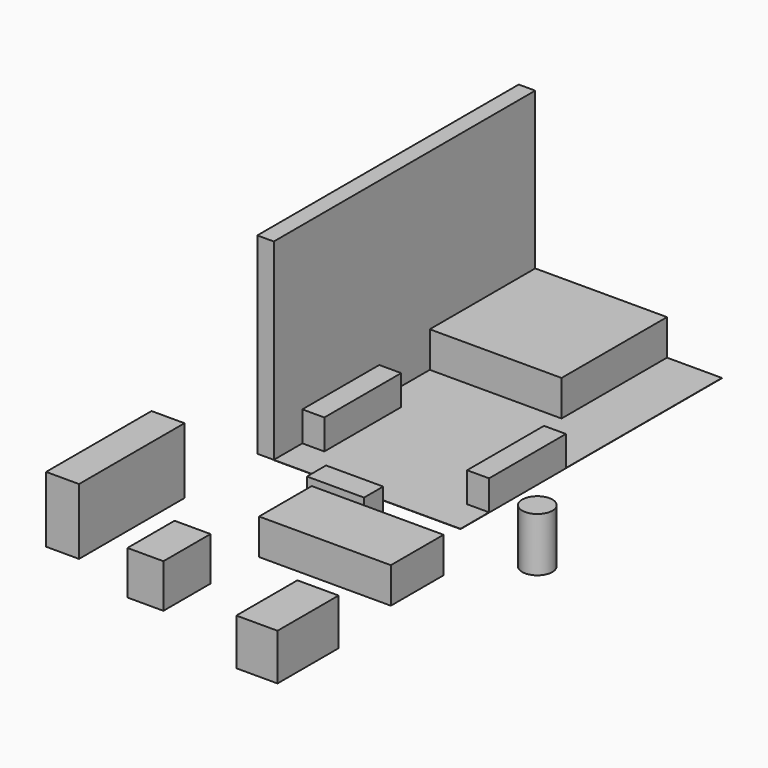
from build123d import *

# Parameters (mm, degrees)
F0_W      = 203.2
F0_H      = 889
F1_DEPTH  = 279.4
F4_DEPTH  = 2.54
F6_DEPTH  = 1778
F7_W      = 1219.2
F7_H      = 1219.2
F8_DEPTH  = 330.2
F9_W      = 304.8
F9_H      = 1219.2
F10_DEPTH = 609.6
F11_W     = 528.32
F11_H     = 220.98
F12_DEPTH = 228.6
F13_W     = 1219.2
F13_H     = 609.6
F14_DEPTH = 330.2
F15_W     = 332.74
F15_H     = 544.83
F16_DEPTH = 403.86
F17_W     = 381
F17_H     = 706.12
F18_DEPTH = 429.26
F19_R     = 139.7
F20_DEPTH = 499.618


with BuildPart() as f1:
    # F0 (on Top) → F1 (new body)
    with BuildSketch(Plane.XY):
        with Locations((-762, -736.6)):
            Rectangle(F0_W, F0_H)
    extrude(amount=F1_DEPTH)


with BuildPart() as f2_1:
    # F2: instance of F1
    add(f1.part.mirror(Plane.YZ))


with BuildPart() as f4:
    # F3 (on face) → F4 (new body)
    with BuildSketch(Plane.XY):
        Polygon((-863.6, -1181.1), (-863.6, -1511.3), (863.6, -1511.3), (863.6, 1511.3), (-863.6, 1511.3), (-863.6, 419.1), (-863.6, -292.1), (-660.4, -292.1), (-660.4, -1181.1), align=None)
    extrude(amount=F4_DEPTH)


with BuildPart() as f6:
    # F5 (on face) → F6 (new body)
    with BuildSketch(Plane.XY.offset(2.54)):
        Polygon((-1016, -1511.3), (-863.6, -1511.3), (-863.6, -1181.1), (-863.6, -292.1), (-863.6, 1511.3), (-1016, 1511.3), align=None)
    extrude(amount=F6_DEPTH)


with BuildPart() as f8:
    # F7 (on face) → F8 (new body)
    with BuildSketch(Plane.XY.offset(2.54)):
        with Locations((-254, 901.7)):
            Rectangle(F7_W, F7_H)
    extrude(amount=F8_DEPTH)


with BuildPart() as f10:
    # F9 (on face) → F10 (new body)
    with BuildSketch(Plane.XY):
        with Locations((-1149.300161, -2986.844182)):
            Rectangle(F9_W, F9_H)
    extrude(amount=F10_DEPTH)


with BuildPart() as f12:
    # F11 (on face) → F12 (new body)
    with BuildSketch(Plane.XY.offset(2.54)):
        with Locations((24.565428, -1797.391298)):
            Rectangle(F11_W, F11_H)
    extrude(amount=F12_DEPTH)


with BuildPart() as f14:
    # F13 (on face) → F14 (new body)
    with BuildSketch(Plane.XY):
        with Locations((609.6, -2456.55981)):
            Rectangle(F13_W, F13_H)
    extrude(amount=F14_DEPTH)


with BuildPart() as f16:
    # F15 (on face) → F16 (new body)
    with BuildSketch(Plane.XY.offset(2.54)):
        with Locations((-177.13221, -3581.119776)):
            Rectangle(F15_W, F15_H)
    extrude(amount=F16_DEPTH)


with BuildPart() as f18:
    # F17 (on face) → F18 (new body)
    with BuildSketch(Plane.XY.offset(2.54)):
        with Locations((1152.306117, -3873.069286)):
            Rectangle(F17_W, F17_H)
    extrude(amount=F18_DEPTH)


with BuildPart() as f20:
    # F19 (on face) → F20 (new body)
    with BuildSketch(Plane.XY.offset(2.54)):
        with Locations((1664.5751, -1624.409795)):
            Circle(F19_R)
    extrude(amount=F20_DEPTH)


solid = Compound([f1.part, f2_1.part, f4.part, f6.part, f8.part, f10.part, f12.part, f14.part, f16.part, f18.part, f20.part])
